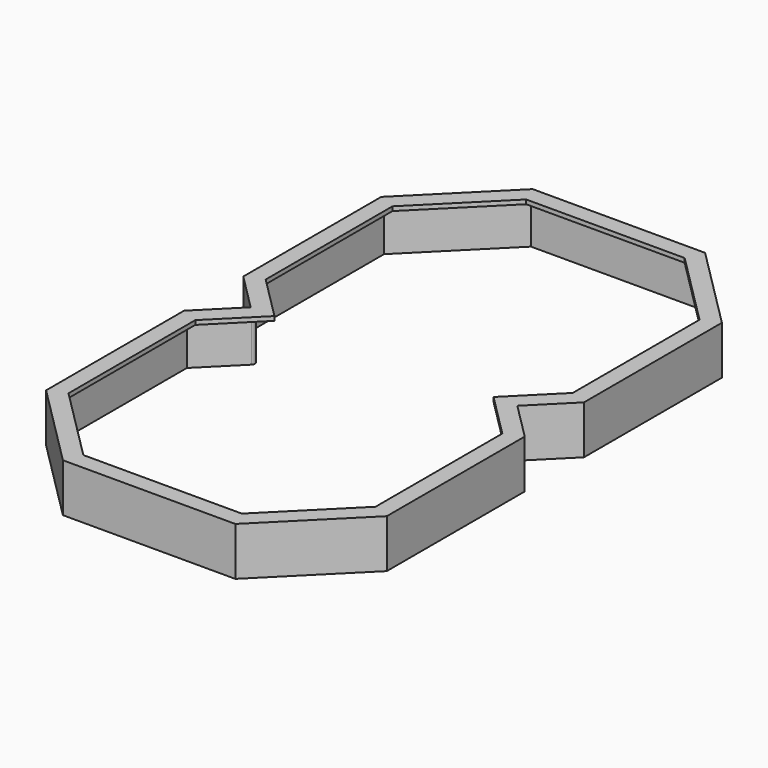
from build123d import *

# Parameters (mm, degrees)
PAD006_DEPTH            = 11.5
THICKNESS001_T          = -1
POCKET002_DEPTH         = 5
BODY017_PLACEMENT_ANGLE = 180


with BuildPart() as part:
    # Sketch008 → Pad006 (new body)
    with BuildSketch(Plane.XY):
        Polygon((-20.497056, 69.8), (20.497056, 69.8), (40.5, 49.797056), (40.5, 8.802944), (31.697056, 0), (40.5, -8.802944), (40.5, -49.797056), (20.497056, -69.8), (-20.497056, -69.8), (-40.5, -49.797056), (-40.5, -8.802944), (-31.697056, 0), (-40.5, 8.802944), (-40.5, 49.797056), align=None)
    extrude(amount=PAD006_DEPTH)

    # Thickness001
    thickness001_openings = [part.faces().sort_by_distance(p)[0] for p in [
        (0, 0, 11.5),
    ]]
    offset(amount=THICKNESS001_T, openings=thickness001_openings)

    # Sketch009 (on Face33 of Thickness001) → Pocket002 (cut)
    with BuildSketch(Plane.XY.offset(1)):
        Polygon((-18.840202, 65.8), (18.840202, 65.8), (36.5, 48.140202), (36.5, 10.459798), (26.040202, 0), (36.5, -10.459798), (36.5, -48.140202), (18.840202, -65.8), (-18.840202, -65.8), (-36.5, -48.140202), (-36.5, -10.459798), (-26.040202, 0), (-36.5, 10.459798), (-36.5, 48.140202), align=None)
    extrude(amount=-POCKET002_DEPTH, mode=Mode.SUBTRACT)


with BuildPart() as part_1:
    # Body017 placement: moved
    add(part.part.moved(Location((0, 0, 19))).rotate(Axis((0, 0, 19), (0, 1, 0)), BODY017_PLACEMENT_ANGLE))


solid = part_1.part
